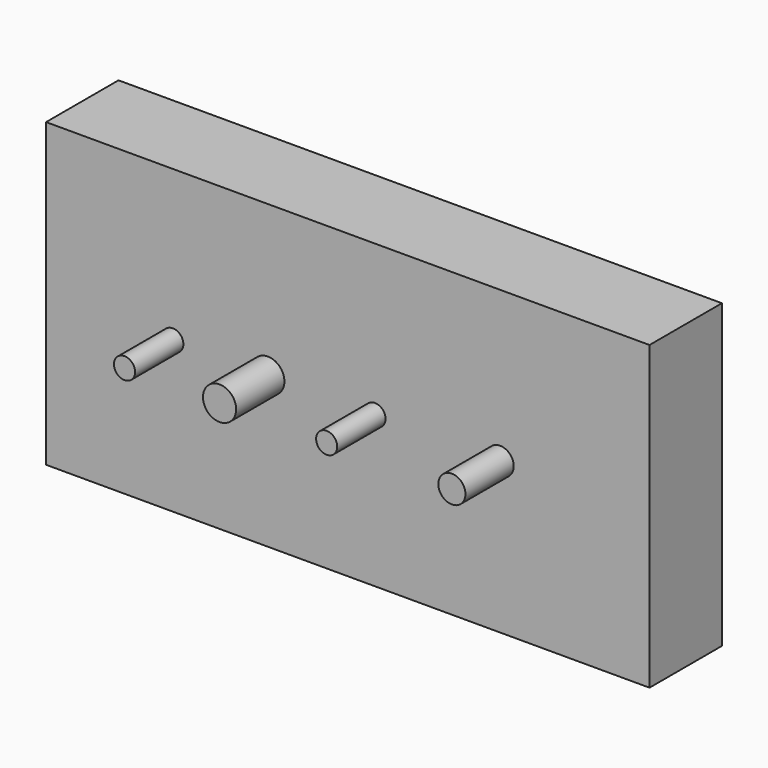
from build123d import *

# Parameters (mm, degrees)
F0_W     = 100
F0_H     = 50
F1_DEPTH = 15
F2_R     = 1.75
F3_DEPTH = 10
F4_R     = 2.75
F5_DEPTH = 10
F6_R     = 1.75
F7_DEPTH = 10
F8_R     = 2.25
F9_DEPTH = 10


with BuildPart() as f1:
    # F0 (on Front) → F1 (new body)
    with BuildSketch(Plane.XZ):
        Rectangle(F0_W, F0_H)
    extrude(amount=F1_DEPTH)

    # F2 (on face) → F3 (join)
    with BuildSketch(Plane.XZ.offset(15)):
        with Locations((-29, 0)):
            Circle(F2_R)
    extrude(amount=F3_DEPTH)

    # F4 (on face) → F5 (join)
    with BuildSketch(Plane.XZ.offset(15)):
        with Locations((-13.25, 0)):
            Circle(F4_R)
    extrude(amount=F5_DEPTH)

    # F6 (on face) → F7 (join)
    with BuildSketch(Plane.XZ.offset(15)):
        with Locations((4.5, 0)):
            Circle(F6_R)
    extrude(amount=F7_DEPTH)

    # F8 (on face) → F9 (join)
    with BuildSketch(Plane.XZ.offset(15)):
        with Locations((25.25, 0)):
            Circle(F8_R)
    extrude(amount=F9_DEPTH)


solid = f1.part
